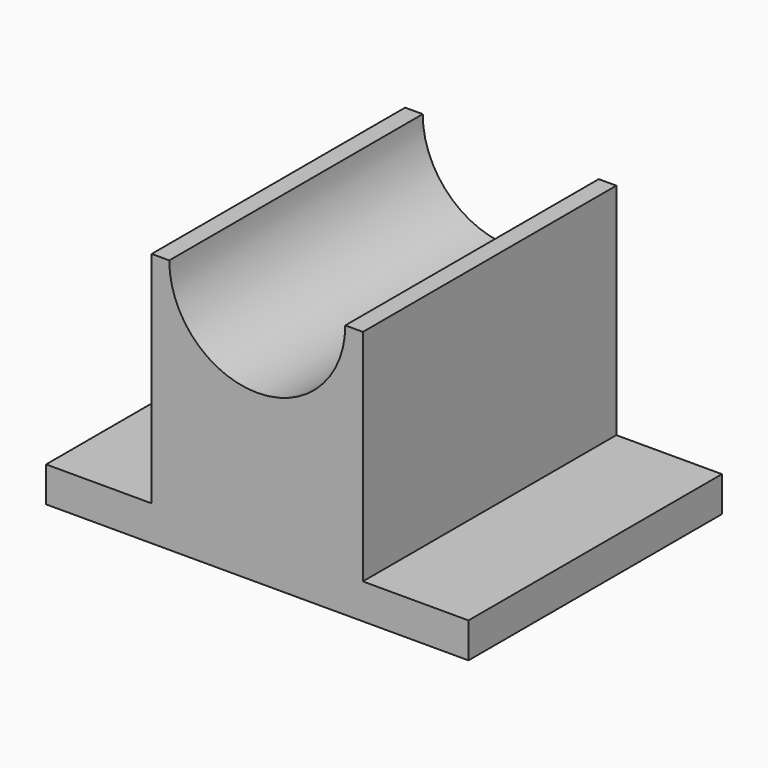
from build123d import *

# Parameters (mm, degrees)
F0_W     = 152.4
F0_H     = 114.3
F1_DEPTH = 12.7
F2_W     = 76.2
F2_H     = 114.3
F3_DEPTH = 79.248
F4_R     = 31.75
F5_DEPTH = 114.301


with BuildPart() as f1:
    # F0 (on Top) → F1 (new body)
    with BuildSketch(Plane.XY):
        with Locations((-30.01758, 19.292982)):
            Rectangle(F0_W, F0_H)
    extrude(amount=F1_DEPTH)

    # F2 (on face) → F3 (join)
    with BuildSketch(Plane.XY.offset(12.7)):
        with Locations((-30.01758, 19.292982)):
            Rectangle(F2_W, F2_H)
    extrude(amount=F3_DEPTH)

    # F4 (on face) → F5 (cut, through all)
    with BuildSketch(Plane.XZ.offset(37.857018)):
        with Locations((-30.01758, 91.948)):
            Circle(F4_R)
    extrude(amount=-F5_DEPTH, mode=Mode.SUBTRACT)


solid = f1.part
